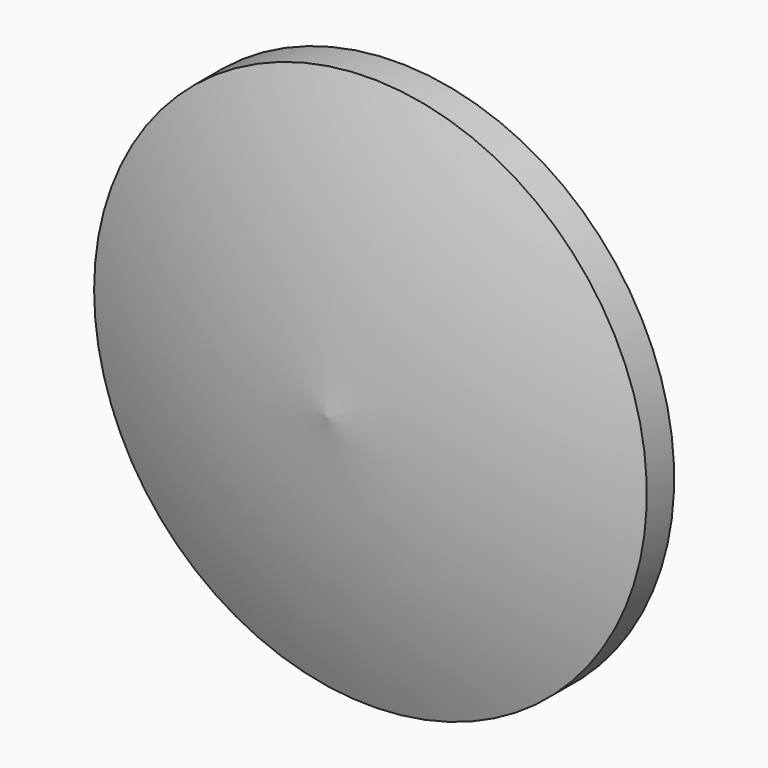
from build123d import *


with BuildPart() as f1:
    # F0 (on Top) → F1 (revolve)
    with BuildSketch(Plane.XY):
        with BuildLine():
            Line((0, -4.919709), (0, 0))
            Line((0, 0), (-22.527087, 0))
            Line((-22.527087, 0), (-22.527087, 3.107185))
            Line((-22.527087, 3.107185), (-25.116408, 3.107185))
            Line((-25.116408, 3.107185), (-25.116408, 0))
            add(Edge.make_bspline(
                [(-25.116408, 0), (-12.687671, -4.401845), (-4.919709, -4.142913), (0, -4.919709)],
                knots=[0, 0, 0, 0, 25.5937, 25.5937, 25.5937, 25.5937], degree=3))
        make_face()
    revolve(axis=Axis((0, -2.459854, 0), (0, -1, 0)))


solid = f1.part
